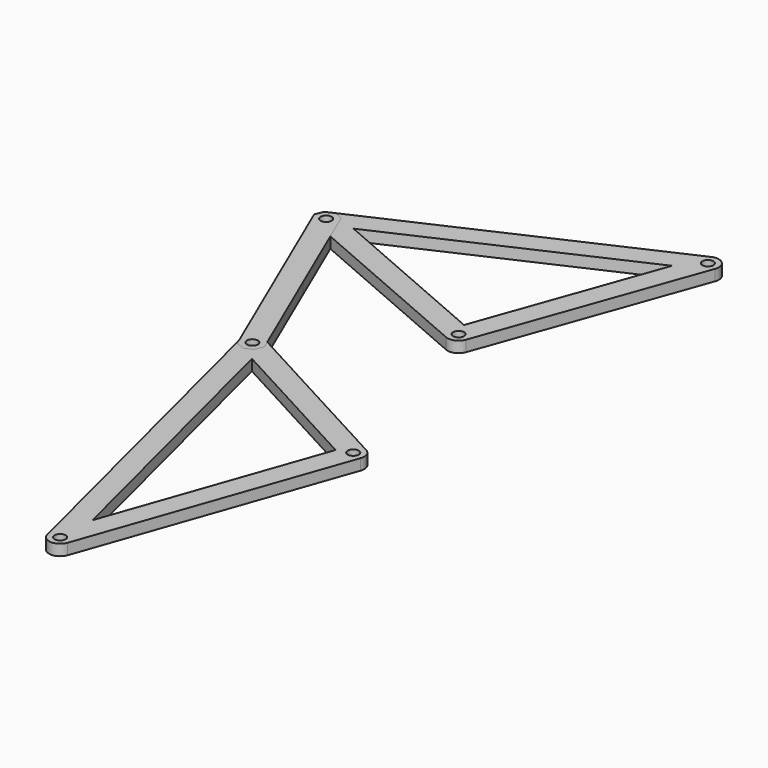
from build123d import *

# Parameters (mm, degrees)
F2_R     = 1
F3_DEPTH = 2
F4_R     = 1
F5_DEPTH = 2
F6_R     = 1
F7_DEPTH = 2


with BuildPart() as f3:
    # F2 (on Top) → F3 (new body)
    with BuildSketch(Plane.XY):
        with BuildLine():
            Line((-24.8425289053, 33.0921988987), (-75.6233591891, 9.9632716498))
            ThreePointArc((-75.6233591891, 9.9632716498), (-76.7942797615, 8.124664252), (-75.5895359648, 6.308039763))
            Line((-75.5895359648, 6.308039763), (-38.7951705838, -9.6351304429))
            ThreePointArc((-38.7951705838, -9.6351304429), (-37.204469868, -9.6349746072), (-36.1170073516, -8.4740465013))
            Line((-36.1170073516, -8.4740465013), (-22.1305424487, 30.5980509535))
            ThreePointArc((-22.1305424487, 30.5980509535), (-22.6596806434, 32.7441973557), (-24.8425289053, 33.0921988987))
        make_face()
        with Locations((-74.7943653809, 8.1431702059)):
            Circle(F2_R, mode=Mode.SUBTRACT)
        with Locations((-38, -7.8)):
            Circle(F2_R, mode=Mode.SUBTRACT)
        Polygon((-39.1635509363, -5.1161463828), (-69.8691773282, 8.1887448085), (-27.4915690607, 27.490292521), align=None, mode=Mode.SUBTRACT)
        with Locations((-24.0135350971, 31.2720974548)):
            Circle(F2_R, mode=Mode.SUBTRACT)
    extrude(amount=F3_DEPTH)


with BuildPart() as f5:
    # F4 (on Top) → F5 (new body)
    with BuildSketch(Plane.XY):
        with BuildLine():
            Line((-26.0004863264, -43.7560743701), (-58.2798942563, -26.2938344308))
            ThreePointArc((-58.2798942563, -26.2938344308), (-60.459357187, -26.4741954623), (-61.1707540085, -28.5421662867))
            Line((-61.1707540085, -28.5421662867), (-45.0993495711, -92.2461689821))
            ThreePointArc((-45.0993495711, -92.2461689821), (-43.2500797202, -93.7549082873), (-41.2726916361, -92.4184840891))
            Line((-41.2726916361, -92.4184840891), (-25.0646881436, -46.176721333))
            ThreePointArc((-25.0646881436, -46.176721333), (-25.0866528288, -44.7940040191), (-26.0004863264, -43.7560743701))
        make_face()
        with Locations((-43.1601105241, -91.7569329261)):
            Circle(F4_R, mode=Mode.SUBTRACT)
        with Locations((-59.2315149614, -28.0529302307)):
            Circle(F4_R, mode=Mode.SUBTRACT)
        Polygon((-42.847704835, -84.8192376194), (-56.1785207693, -31.978408585), (-29.4035835035, -46.4628867363), align=None, mode=Mode.SUBTRACT)
        with Locations((-26.9521070316, -45.5151701701)):
            Circle(F4_R, mode=Mode.SUBTRACT)
    extrude(amount=F5_DEPTH)


with BuildPart() as f7:
    # F6 (on Top) → F7 (new body)
    with BuildSketch(Plane.XY):
        Polygon((-76.345419499, 9.6533101411), (-76.9589564545, 8.1142395098), (-68.8503056756, -10.7448724195), (-60.7416548966, -29.6039843488), (-59.2025842653, -30.2175213043), (-57.6804608434, -29.563070166), (-57.0669238878, -28.0239995346), (-65.1755746668, -9.1648876053), (-73.2842254457, 9.6942243239), (-74.8232960771, 10.3077612795), align=None)
        with Locations((-59.2315149614, -28.0529302307)):
            Circle(F6_R, mode=Mode.SUBTRACT)
        with Locations((-74.7943653809, 8.1431702059)):
            Circle(F6_R, mode=Mode.SUBTRACT)
    extrude(amount=F7_DEPTH)


solid = Compound([f3.part, f5.part, f7.part])
